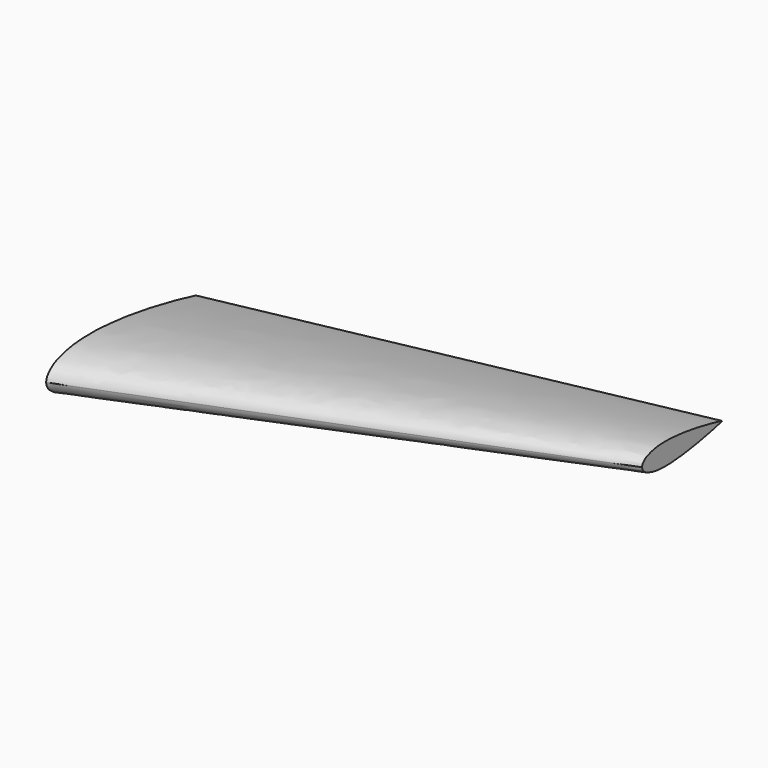
from build123d import *


with BuildPart() as f4:
    # F1 (on Right) → F4 section 0
    with BuildSketch(Plane.YZ):
        with BuildLine():
            add(Edge.make_bspline(
                [(-150, 0), (-149.7146749537, 1.8115647), (-149.0734814116, 5.6470338102), (-145.4761833388, 11.6966979777), (-139.1708336246, 16.8486097594), (-132.1543767263, 21.8033453541), (-121.3657125648, 25.1883018518), (-108.7285771597, 28.9608198539), (-94.3327240613, 31.5090192908), (-77.7420933691, 32.6311785179), (-65.4819672859, 33.056406073), (-46.9127152308, 33.0098250924), (-33.2687926766, 32.1446183353), (-17.4425475163, 30.6199899727), (-2.4419375756, 29.5539217631), (24.226876626, 26.0060513811), (57.7231830373, 20.7559060024), (97.714133373, 13.0305165026), (131.2302614252, 5.4527704223), (144.642090093, 2.0308976609), (150, 0.693)],
                knots=[0, 0, 0, 0, 0.0326047043, 0.0686245258, 0.1077285372, 0.1478929652, 0.1938670674, 0.243921503, 0.2970712355, 0.3526546402, 0.4016600499, 0.4602828197, 0.5121269023, 0.5659247717, 0.6193238748, 0.6898000277, 0.7709202976, 0.8599056164, 0.9407456542, 1, 1, 1, 1], degree=3))
            add(Edge.make_bspline(
                [(-150, 0), (-149.7146749537, -1.8115647), (-149.0734814116, -5.6470338102), (-145.4761833388, -11.6966979777), (-139.1708336246, -16.8486097594), (-132.1543767263, -21.8033453541), (-121.3657125648, -25.1883018518), (-108.7285771597, -28.9608198539), (-94.3327240613, -31.5090192908), (-77.7420933691, -32.6311785179), (-65.4819672859, -33.056406073), (-46.9127152308, -33.0098250924), (-33.2687926766, -32.1446183353), (-17.4425475163, -30.6199899727), (-2.4419375756, -29.5539217631), (24.226876626, -26.0060513811), (57.7231830373, -20.7559060024), (97.714133373, -13.0305165026), (131.2302614252, -5.4527704223), (144.642090093, -2.0308976609), (150, -0.693)],
                knots=[0, 0, 0, 0, 0.0326047043, 0.0686245258, 0.1077285372, 0.1478929652, 0.1938670674, 0.243921503, 0.2970712355, 0.3526546402, 0.4016600499, 0.4602828197, 0.5121269023, 0.5659247717, 0.6193238748, 0.6898000277, 0.7709202976, 0.8599056164, 0.9407456542, 1, 1, 1, 1], degree=3))
            Line((150, -0.693), (150, 0))
            Line((150, 0), (150, 0.693))
        make_face()
    # F3 (on offset) → F4 section 1
    with BuildSketch(Plane.YZ.offset(750)):
        with BuildLine():
            add(Edge.make_bspline(
                [(105.8200191247, 20.2821325511), (105.9721924828, 21.2483003911), (106.3141623719, 23.2938839165), (108.2327213441, 26.5203714725), (111.595574525, 29.2680577561), (115.3376848707, 31.9105834066), (121.0916390902, 33.7158935387), (127.8314446396, 35.7279031398), (135.5092329587, 37.0869428395), (144.3575693279, 37.6854277606), (150.8963032389, 37.91221579), (160.799904335, 37.8873726004), (168.0766630306, 37.4259289966), (176.517327116, 36.6127938698), (184.5176524178, 36.0442241581), (198.7410199919, 34.152026621), (216.6057167446, 31.3519490857), (237.9342235904, 27.2317413524), (255.8094918848, 23.1902767763), (262.9624671744, 21.3652779702), (265.8200191247, 20.6517325511)],
                knots=[0, 0, 0, 0, 0.0326047043, 0.0686245258, 0.1077285372, 0.1478929652, 0.1938670674, 0.243921503, 0.2970712355, 0.3526546402, 0.4016600499, 0.4602828197, 0.5121269023, 0.5659247717, 0.6193238748, 0.6898000277, 0.7709202976, 0.8599056164, 0.9407456542, 1, 1, 1, 1], degree=3))
            add(Edge.make_bspline(
                [(105.8200191247, 20.2821325511), (105.9721924828, 19.3159647111), (106.3141623719, 17.2703811856), (108.2327213441, 14.0438936296), (111.595574525, 11.2962073461), (115.3376848707, 8.6536816956), (121.0916390902, 6.8483715634), (127.8314446396, 4.8363619623), (135.5092329587, 3.4773222627), (144.3575693279, 2.8788373415), (150.8963032389, 2.6520493121), (160.799904335, 2.6768925018), (168.0766630306, 3.1383361056), (176.517327116, 3.9514712323), (184.5176524178, 4.5200409441), (198.7410199919, 6.4122384812), (216.6057167446, 9.2123160165), (237.9342235904, 13.3325237497), (255.8094918848, 17.3739883258), (262.9624671744, 19.1989871319), (265.8200191247, 19.9125325511)],
                knots=[0, 0, 0, 0, 0.0326047043, 0.0686245258, 0.1077285372, 0.1478929652, 0.1938670674, 0.243921503, 0.2970712355, 0.3526546402, 0.4016600499, 0.4602828197, 0.5121269023, 0.5659247717, 0.6193238748, 0.6898000277, 0.7709202976, 0.8599056164, 0.9407456542, 1, 1, 1, 1], degree=3))
            Line((265.8200191247, 19.9125325511), (265.8200191247, 20.2821325511))
            Line((265.8200191247, 20.2821325511), (265.8200191247, 20.6517325511))
        make_face()
    loft()


solid = f4.part
